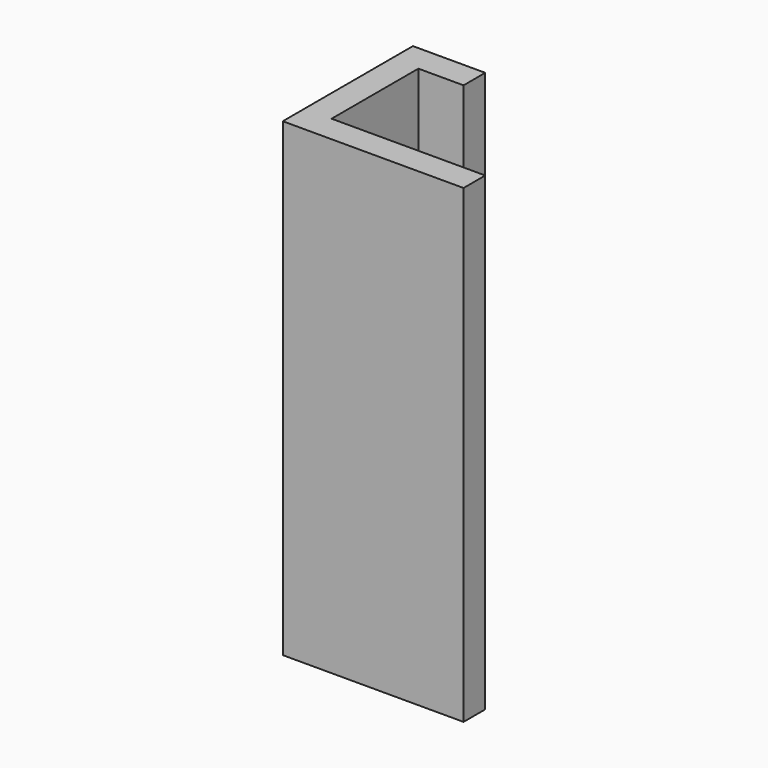
from build123d import *

# Parameters (mm, degrees)
F1_DEPTH = 26


with BuildPart() as f1:
    # F0 (on Top) → F1 (new body, symmetric)
    with BuildSketch(Plane.XY):
        Polygon((0, 18), (0, 0), (20, 0), (20, 3), (3, 3), (3, 15), (8, 15), (8, 18), align=None)
    extrude(amount=F1_DEPTH, both=True)


solid = f1.part
